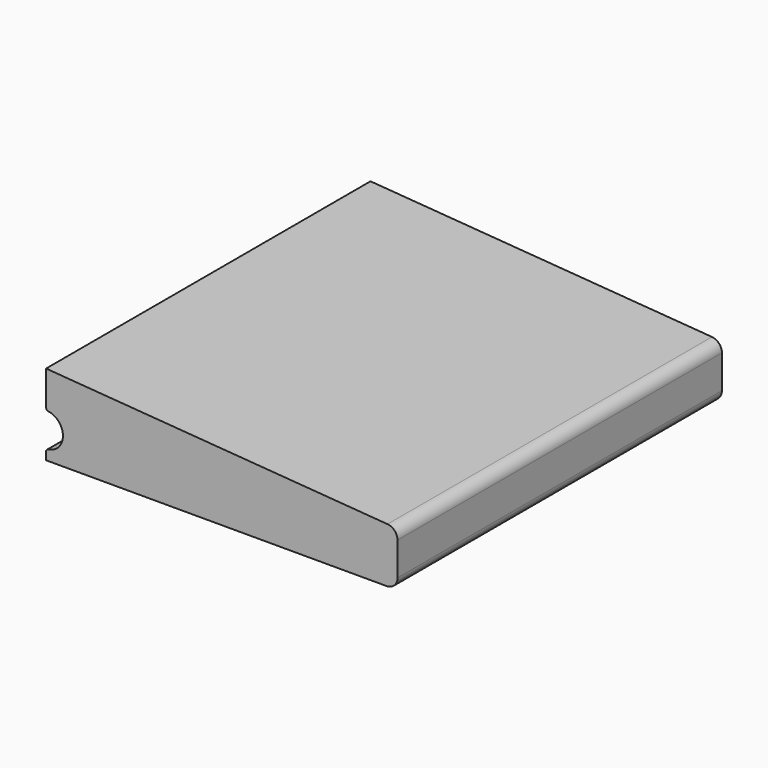
from build123d import *

# Parameters (mm, degrees)
F1_DEPTH = 75


with BuildPart() as f1:
    # F0 (on Front) → F1 (new body)
    with BuildSketch(Plane.XZ):
        with BuildLine():
            Line((-16.307808, 0.007301), (46.692192, 0.007301))
            ThreePointArc((46.692192, 0.007301), (48.106405, 0.593088), (48.692192, 2.007301))
            Line((48.692192, 2.007301), (48.692192, 8.153544))
            ThreePointArc((48.692192, 8.153544), (48.159016, 9.513112), (46.843765, 10.147792))
            Line((46.843765, 10.147792), (-16.307808, 14.947653))
            Line((-16.307808, 14.947653), (-16.307808, 8.597653))
            ThreePointArc((-16.307808, 8.597653), (-16.184957, 8.269387), (-15.876774, 8.102432))
            ThreePointArc((-15.876774, 8.102432), (-13.182808, 5.007301), (-15.876774, 1.912171))
            ThreePointArc((-15.876774, 1.912171), (-16.184957, 1.745216), (-16.307808, 1.41695))
            Line((-16.307808, 1.41695), (-16.307808, 0.007301))
        make_face()
    extrude(amount=F1_DEPTH)


solid = f1.part
